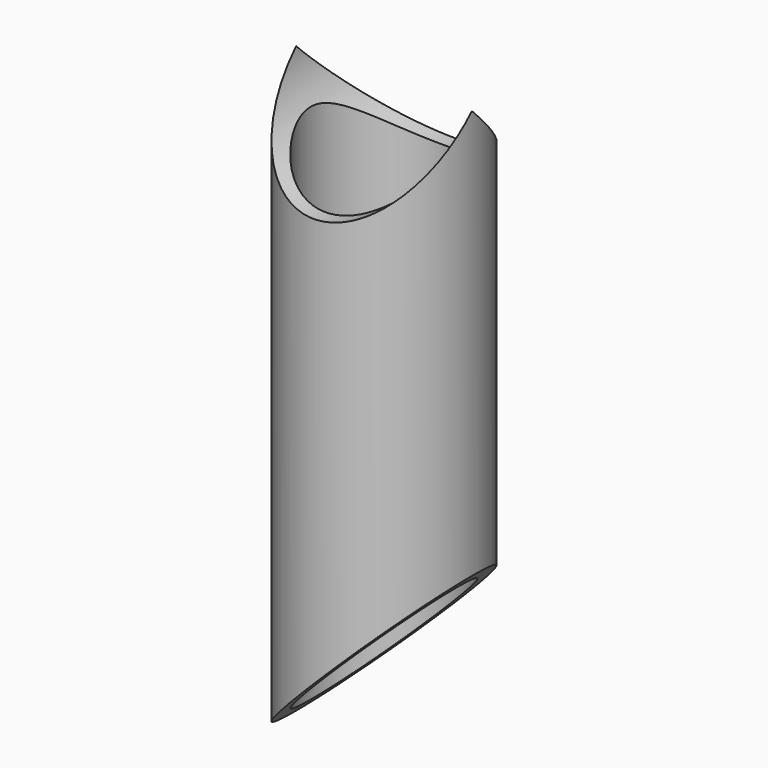
from build123d import *

# Parameters (mm, degrees)
F0_R     = 15
F0_R_2   = 12.5
F1_DEPTH = 49.9264
F2_R     = 15
F3_DEPTH = 25
F5_DEPTH = 15
F6_DEPTH = 25


with BuildPart() as f1:
    # F0 (on Top) → F1 (new body, symmetric)
    with BuildSketch(Plane.XY):
        Circle(F0_R)
        Circle(F0_R_2, mode=Mode.SUBTRACT)
    extrude(amount=F1_DEPTH, both=True)

    # F2 (on Front) → F3 (cut, symmetric)
    with BuildSketch(Plane.XZ):
        with Locations((0, 49.9264)):
            Circle(F2_R)
    extrude(amount=F3_DEPTH, both=True, mode=Mode.SUBTRACT)

    # F4 (on Front) → F5 (cut, symmetric)
    with BuildSketch(Plane.XZ):
        Polygon((15, -19.9264), (-15, -49.9264), (15, -49.9264), align=None)
    extrude(amount=F5_DEPTH, both=True, mode=Mode.SUBTRACT)

    # F4 (on Front) → F6 (cut, symmetric)
    with BuildSketch(Plane.XZ):
        Polygon((15, -19.9264), (-15, -49.9264), (15, -49.9264), align=None)
    extrude(amount=F6_DEPTH, both=True, mode=Mode.SUBTRACT)


solid = f1.part
